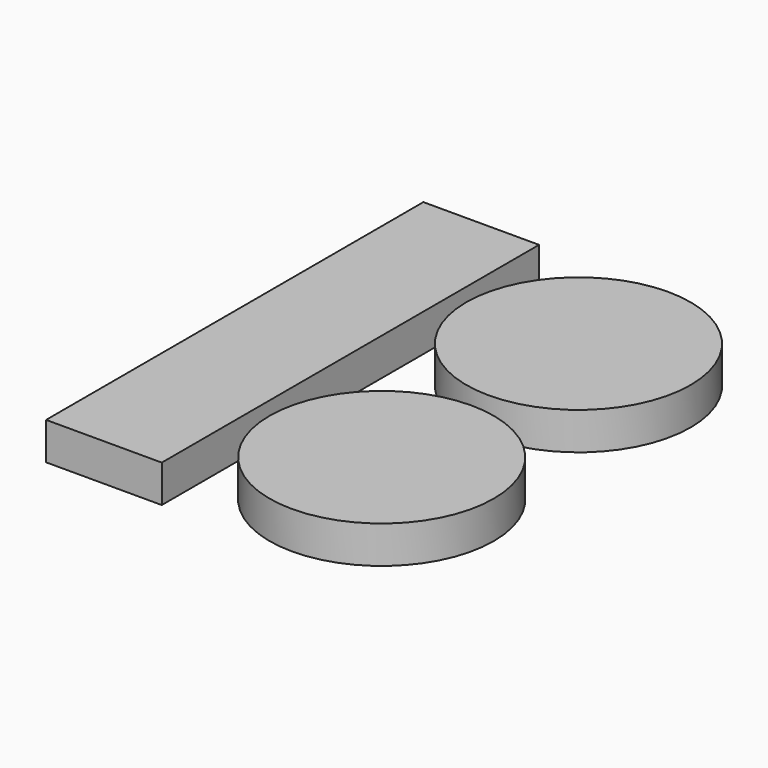
from build123d import *

# Parameters (mm, degrees)
F0_R     = 15
F0_W     = 15.472714
F0_H     = 63.080201
F1_DEPTH = 5


with BuildPart() as f1:
    # F0 (on Top) → F1 (new body)
    with BuildSketch(Plane.XY):
        with Locations((21.483535, 29.877521)):
            Circle(F0_R)
        with Locations((21.483535, -3.02705)):
            Circle(F0_R)
        with Locations((-3.425986, 13.21107)):
            Rectangle(F0_W, F0_H)
    extrude(amount=F1_DEPTH)


solid = f1.part
